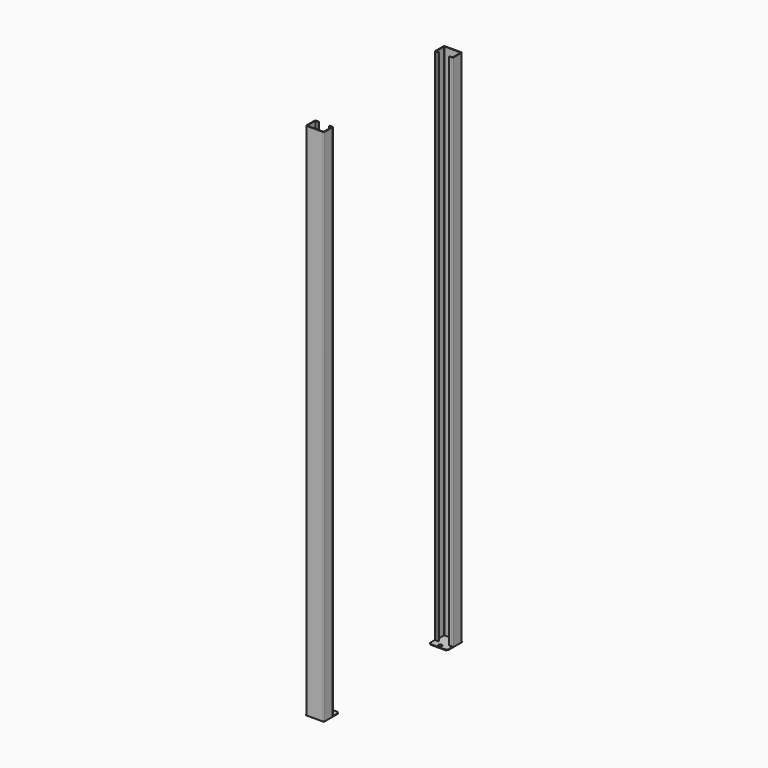
from build123d import *

# Parameters (mm, degrees)
F0_R     = 6.35
F1_DEPTH = 2.54
F3_DEPTH = 1828.8


with BuildPart() as f1:
    # F0 (on Top) → F1 (new body)
    with BuildSketch(Plane.XY):
        Polygon((31.75, -243.205), (26.67, -238.125), (-26.67, -238.125), (-31.75, -243.205), (-31.75, -304.8), (31.75, -304.8), align=None)
        with Locations((0, -247.65)):
            Circle(F0_R, mode=Mode.SUBTRACT)
        Polygon((-26.67, 238.125), (26.67, 238.125), (31.75, 243.205), (31.75, 304.8), (-31.75, 304.8), (-31.75, 243.205), align=None)
        with Locations((0, 247.65)):
            Circle(F0_R, mode=Mode.SUBTRACT)
    extrude(amount=F1_DEPTH)


with BuildPart() as f3:
    # F2 (on face) → F3 (new body)
    with BuildSketch(Plane.XY.offset(2.54)):
        with BuildLine():
            Line((-19.05, -263.525), (-28.4988, -263.525))
            ThreePointArc((-28.4988, -263.525), (-30.797746, -264.477254), (-31.75, -266.7762))
            Line((-31.75, -266.7762), (-31.75, -301.5488))
            ThreePointArc((-31.75, -301.5488), (-30.797746, -303.847746), (-28.4988, -304.8))
            Line((-28.4988, -304.8), (28.4988, -304.8))
            ThreePointArc((28.4988, -304.8), (30.797746, -303.847746), (31.75, -301.5488))
            Line((31.75, -301.5488), (31.75, -266.7762))
            ThreePointArc((31.75, -266.7762), (30.797746, -264.477254), (28.4988, -263.525))
            Line((28.4988, -263.525), (19.05, -263.525))
            Line((19.05, -263.525), (19.05, -266.065))
            Line((19.05, -266.065), (28.4988, -266.065))
            ThreePointArc((28.4988, -266.065), (29.001694, -266.273306), (29.21, -266.7762))
            Line((29.21, -266.7762), (29.21, -301.5488))
            ThreePointArc((29.21, -301.5488), (29.001694, -302.051694), (28.4988, -302.26))
            Line((28.4988, -302.26), (-28.4988, -302.26))
            ThreePointArc((-28.4988, -302.26), (-29.001694, -302.051694), (-29.21, -301.5488))
            Line((-29.21, -301.5488), (-29.21, -266.7762))
            ThreePointArc((-29.21, -266.7762), (-29.001694, -266.273306), (-28.4988, -266.065))
            Line((-28.4988, -266.065), (-19.05, -266.065))
            Line((-19.05, -266.065), (-19.05, -263.525))
        make_face()
        with BuildLine():
            Line((-19.05, 266.065), (-28.4988, 266.065))
            ThreePointArc((-28.4988, 266.065), (-29.001694, 266.273306), (-29.21, 266.7762))
            Line((-29.21, 266.7762), (-29.21, 301.5488))
            ThreePointArc((-29.21, 301.5488), (-29.001694, 302.051694), (-28.4988, 302.26))
            Line((-28.4988, 302.26), (28.4988, 302.26))
            ThreePointArc((28.4988, 302.26), (29.001694, 302.051694), (29.21, 301.5488))
            Line((29.21, 301.5488), (29.21, 266.7762))
            ThreePointArc((29.21, 266.7762), (29.001694, 266.273306), (28.4988, 266.065))
            Line((28.4988, 266.065), (19.05, 266.065))
            Line((19.05, 266.065), (19.05, 263.525))
            Line((19.05, 263.525), (28.4988, 263.525))
            ThreePointArc((28.4988, 263.525), (30.797746, 264.477254), (31.75, 266.7762))
            Line((31.75, 266.7762), (31.75, 301.5488))
            ThreePointArc((31.75, 301.5488), (30.797746, 303.847746), (28.4988, 304.8))
            Line((28.4988, 304.8), (-28.4988, 304.8))
            ThreePointArc((-28.4988, 304.8), (-30.797746, 303.847746), (-31.75, 301.5488))
            Line((-31.75, 301.5488), (-31.75, 266.7762))
            ThreePointArc((-31.75, 266.7762), (-30.797746, 264.477254), (-28.4988, 263.525))
            Line((-28.4988, 263.525), (-19.05, 263.525))
            Line((-19.05, 263.525), (-19.05, 266.065))
        make_face()
    extrude(amount=F3_DEPTH)


solid = Compound([f1.part, f3.part])
